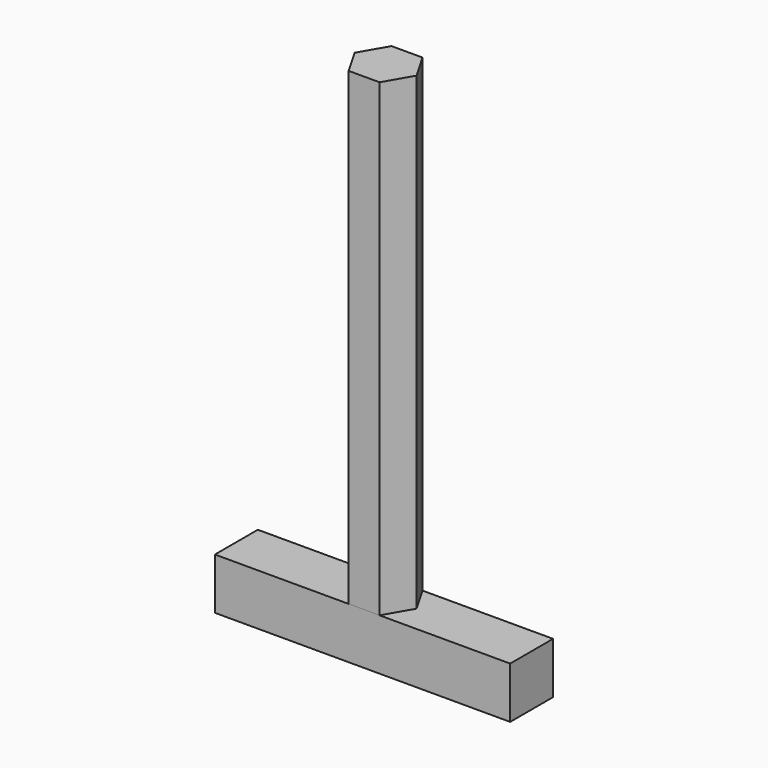
from build123d import *

# Parameters (mm, degrees)
F1_DEPTH = 70
F3_DEPTH = 8


with BuildPart() as f1:
    # F0 (on Top) → F1 (new body)
    with BuildSketch(Plane.XY):
        Polygon((-0.957258, 2.713892), (1.352487, 6.713694), (-0.956571, 10.713892), (-5.575373, 10.714289), (-7.885117, 6.714487), (-5.57606, 2.714289), align=None)
    extrude(amount=F1_DEPTH)


with BuildPart() as f3:
    # F2 (on face) → F3 (new body)
    with BuildSketch(Plane(origin=(0.000233, 2.71381, 0), x_dir=(1, -8.6e-05, 0), z_dir=(-8.6e-05, -1, 0))):
        Polygon((-5.576293, 0), (-25.51982, 0), (-25.51982, -7.661053), (18.524837, -7.661053), (18.524837, 0), (-0.957491, 0), align=None)
    extrude(amount=-F3_DEPTH)


solid = Compound([f1.part, f3.part])
